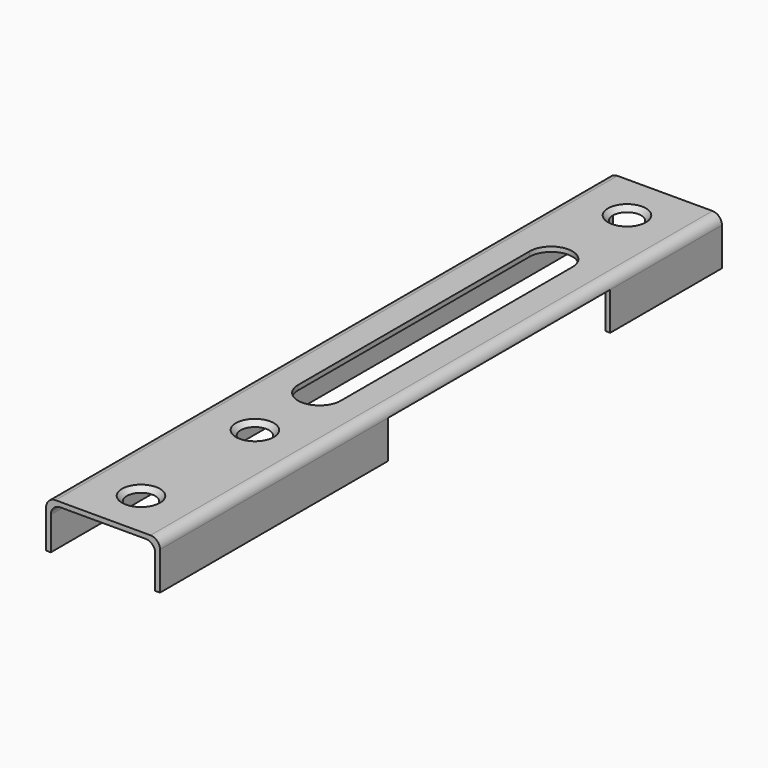
from build123d import *

# Parameters (mm, degrees)
F0_W            = 24
F0_H            = 148
F1_DEPTH        = 10
F2_R            = 2
F3_W            = 22
F3_H            = 9
F4_DEPTH        = 148
F5_R            = 2
F7_DEPTH        = 1
F8_R            = 2
F9_R            = 2
F11_D           = 5
F11_CSINK_D     = 8
F11_CSINK_ANGLE = 90
F13_W           = 58.5735701025
F13_H           = 8
F14_DEPTH       = 1.2689491924


with BuildPart() as f1:
    # F0 (on Top) → F1 (new body)
    with BuildSketch(Plane.XY):
        with Locations((12, 74)):
            Rectangle(F0_W, F0_H)
    extrude(amount=F1_DEPTH)

    # F2
    f2_edges = [f1.edges().sort_by_distance(p)[0] for p in [
        (0, 74, 10),
    ]]
    fillet(f2_edges, radius=F2_R)

    # F3 (on face) → F4 (cut, through all)
    with BuildSketch(Plane.XZ):
        with Locations((12, 4.5)):
            Rectangle(F3_W, F3_H)
    extrude(amount=-F4_DEPTH, mode=Mode.SUBTRACT)

    # F5
    f5_edges = [f1.edges().sort_by_distance(p)[0] for p in [
        (1, 74, 9),
    ]]
    fillet(f5_edges, radius=F5_R)

    # F6 (on face) → F7 (cut, through all)
    with BuildSketch(Plane.XY.offset(10)):
        with BuildLine():
            Line((16.5, 57), (16.5, 118))
            ThreePointArc((16.5, 118), (12, 122.5), (7.5, 118))
            Line((7.5, 118), (7.5, 57))
            ThreePointArc((7.5, 57), (12, 52.5), (16.5, 57))
        make_face()
    extrude(amount=-F7_DEPTH, mode=Mode.SUBTRACT)

    # F8
    f8_edges = [f1.edges().sort_by_distance(p)[0] for p in [
        (24, 74, 10),
    ]]
    fillet(f8_edges, radius=F8_R)

    # F9
    f9_edges = [f1.edges().sort_by_distance(p)[0] for p in [
        (23, 74, 9),
    ]]
    fillet(f9_edges, radius=F9_R)

    # F11 (through all)
    with Locations(Plane.XY.offset(10)):
        with Locations((12, 138), (12, 40), (12, 10)):
            CounterSinkHole(F11_D / 2, F11_CSINK_D / 2, counter_sink_angle=F11_CSINK_ANGLE)

    # F13 (on face) → F14 (cut, through all)
    with BuildSketch(Plane.YZ.offset(24)):
        with Locations((89.2871636897, 4)):
            Rectangle(F13_W, F13_H)
    extrude(amount=-F14_DEPTH, mode=Mode.SUBTRACT)


solid = f1.part
